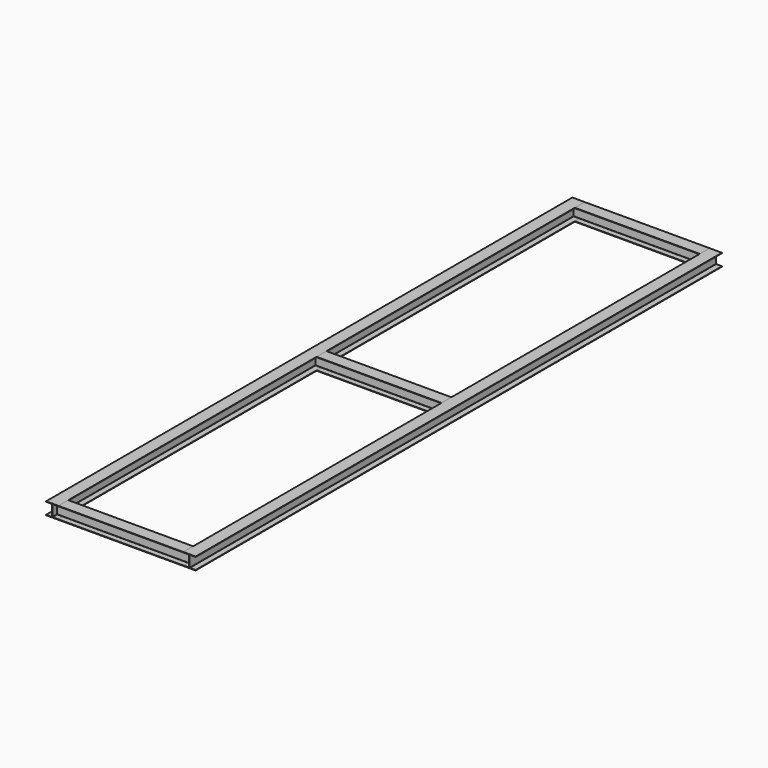
from build123d import *

# Parameters (mm, degrees)
F1_DEPTH = 5880
F3_DEPTH = 2453
F9_DEPTH = 2445


with BuildPart() as f1:
    # F0 (on Front) → F1 (new body, symmetric)
    with BuildSketch(Plane.XZ):
        with BuildLine():
            Line((4, -97), (4, 0))
            Line((4, 0), (4, 97))
            ThreePointArc((4, 97), (5.4644660941, 100.5355339059), (9, 102))
            Line((9, 102), (110, 102))
            Line((110, 102), (110, 110))
            Line((110, 110), (0, 110))
            Line((0, 110), (-110, 110))
            Line((-110, 110), (-110, 102))
            Line((-110, 102), (-9, 102))
            ThreePointArc((-9, 102), (-5.4644660941, 100.5355339059), (-4, 97))
            Line((-4, 97), (-4, 0))
            Line((-4, 0), (-4, -97))
            ThreePointArc((-4, -97), (-5.4644660941, -100.5355339059), (-9, -102))
            Line((-9, -102), (-110, -102))
            Line((-110, -102), (-110, -110))
            Line((-110, -110), (0, -110))
            Line((0, -110), (110, -110))
            Line((110, -110), (110, -102))
            Line((110, -102), (9, -102))
            ThreePointArc((9, -102), (5.4644660941, -100.5355339059), (4, -97))
        make_face()
    extrude(amount=F1_DEPTH, both=True)


with BuildPart() as f3:
    # F2 (on face) → F3 (new body)
    with BuildSketch(Plane(origin=(-4, 0, 0), x_dir=(0, -1, 0), z_dir=(-1, 0, 0))):
        with BuildLine():
            Line((5774, -97), (5774, 0))
            Line((5774, 0), (5774, 97))
            ThreePointArc((5774, 97), (5775.4644660941, 100.5355339059), (5779, 102))
            Line((5779, 102), (5880, 102))
            Line((5880, 102), (5880, 110))
            Line((5880, 110), (5770, 110))
            Line((5770, 110), (5660, 110))
            Line((5660, 110), (5660, 102))
            Line((5660, 102), (5761, 102))
            ThreePointArc((5761, 102), (5764.5355339059, 100.5355339059), (5766, 97))
            Line((5766, 97), (5766, 0))
            Line((5766, 0), (5766, -97))
            ThreePointArc((5766, -97), (5764.5355339059, -100.5355339059), (5761, -102))
            Line((5761, -102), (5660, -102))
            Line((5660, -102), (5660, -110))
            Line((5660, -110), (5770, -110))
            Line((5770, -110), (5880, -110))
            Line((5880, -110), (5880, -102))
            Line((5880, -102), (5779, -102))
            ThreePointArc((5779, -102), (5775.4644660941, -100.5355339059), (5774, -97))
        make_face()
    extrude(amount=F3_DEPTH)


with BuildPart() as f5_1:
    # F5: instance of F1
    add(f1.part.mirror(Plane.YZ.offset(-1226.5)))


with BuildPart() as f3_1:
    add(f3.part)

    # F6: cut F1, F5_1
    add(f1.part, mode=Mode.SUBTRACT)
    add(f5_1.part, mode=Mode.SUBTRACT)


with BuildPart() as f7_1:
    # F7: instance of F3
    add(f3_1.part.mirror(Plane.XZ))


with BuildPart() as f9:
    # F8 (on face) → F9 (new body, through all)
    with BuildSketch(Plane(origin=(-4, 0, 0), x_dir=(0, -1, 0), z_dir=(-1, 0, 0))):
        with BuildLine():
            Line((4, -97), (4, 0))
            Line((4, 0), (4, 97))
            ThreePointArc((4, 97), (5.4644660941, 100.5355339059), (9, 102))
            Line((9, 102), (110, 102))
            Line((110, 102), (110, 110))
            Line((110, 110), (0, 110))
            Line((0, 110), (-110, 110))
            Line((-110, 110), (-110, 102))
            Line((-110, 102), (-9, 102))
            ThreePointArc((-9, 102), (-5.4644660941, 100.5355339059), (-4, 97))
            Line((-4, 97), (-4, 0))
            Line((-4, 0), (-4, -97))
            ThreePointArc((-4, -97), (-5.4644660941, -100.5355339059), (-9, -102))
            Line((-9, -102), (-110, -102))
            Line((-110, -102), (-110, -110))
            Line((-110, -110), (0, -110))
            Line((0, -110), (110, -110))
            Line((110, -110), (110, -102))
            Line((110, -102), (9, -102))
            ThreePointArc((9, -102), (5.4644660941, -100.5355339059), (4, -97))
        make_face()
    extrude(amount=F9_DEPTH)

    # F10: cut F5_1, F1
    add(f5_1.part, mode=Mode.SUBTRACT)
    add(f1.part, mode=Mode.SUBTRACT)


solid = Compound([f1.part, f5_1.part, f3_1.part, f7_1.part, f9.part])
